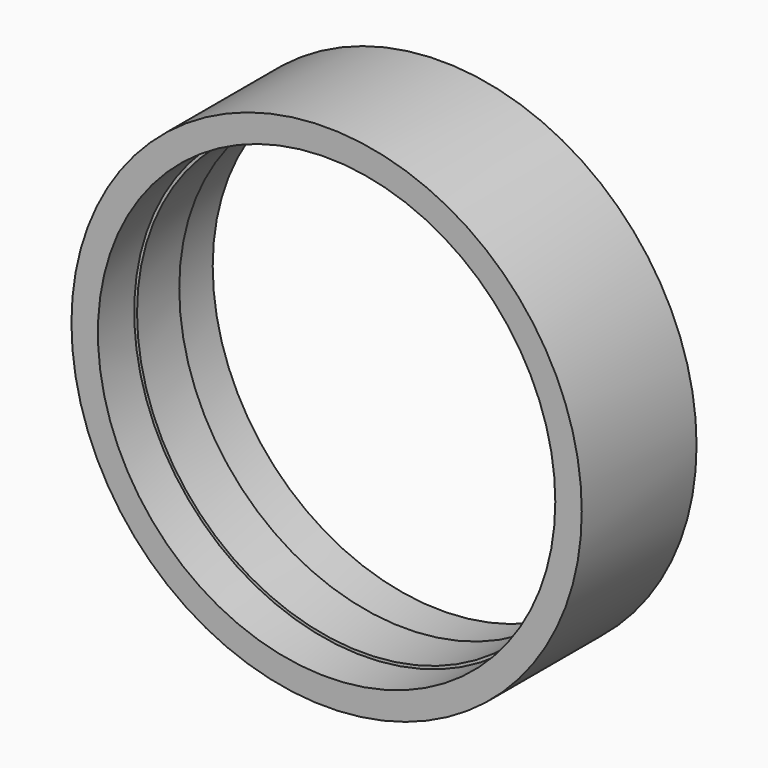
from build123d import *

# Parameters (mm, degrees)
F0_R          = 13.5
F0_R_2        = 11.95
F1_DEPTH      = 3.6
F1_DEPTH_BACK = 3.992162
F2_R          = 12.1
F2_R_2        = 11.95
F3_DEPTH      = 2.4
F4_R          = 12.1
F5_DEPTH      = 2.4


with BuildPart() as f1:
    # F0 (on Front) → F1 (new body, two sides)
    with BuildSketch(Plane.XZ) as f1_sk:
        Circle(F0_R)
        Circle(F0_R_2, mode=Mode.SUBTRACT)
    extrude(amount=F1_DEPTH)
    extrude(f1_sk.sketch, amount=-F1_DEPTH_BACK)

    # F2 (on face) → F3 (cut)
    with BuildSketch(Plane.XZ.offset(3.6)):
        Circle(F2_R)
        Circle(F2_R_2, mode=Mode.SUBTRACT)
    extrude(amount=-F3_DEPTH, mode=Mode.SUBTRACT)

    # F4 (on face) → F5 (cut)
    with BuildSketch(Plane(origin=(0, 3.992162, 0), x_dir=(-1, 0, 0), z_dir=(0, 1, 0))):
        Circle(F4_R)
    extrude(amount=-F5_DEPTH, mode=Mode.SUBTRACT)


solid = f1.part
